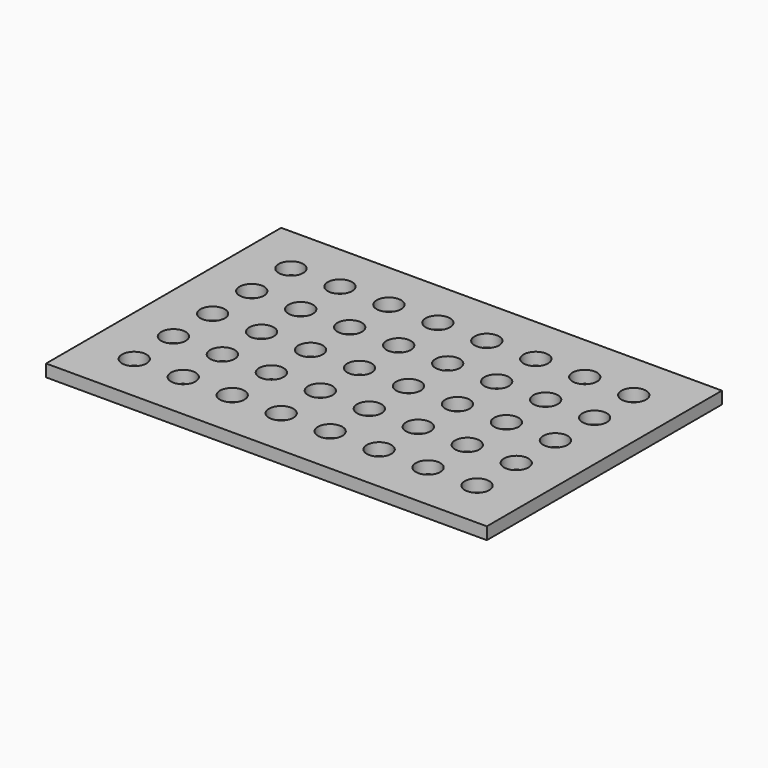
from build123d import *

# Parameters (mm, degrees)
F0_W     = 914.4
F0_H     = 609.6
F1_DEPTH = 25.4
F2_R     = 25.4
F3_DEPTH = 25.4


with BuildPart() as f1:
    # F0 (on Top) → F1 (new body)
    with BuildSketch(Plane.XY):
        Rectangle(F0_W, F0_H)
    extrude(amount=F1_DEPTH)

    # F2 (on face) → F3 (cut, through all)
    with BuildSketch(Plane.XY.offset(25.4)):
        with Locations((-355.6, -203.2)):
            Circle(F2_R)
        with Locations((-254, -203.2)):
            Circle(F2_R)
        with Locations((-152.4, -203.2)):
            Circle(F2_R)
        with Locations((-50.8, -203.2)):
            Circle(F2_R)
        with Locations((50.8, -203.2)):
            Circle(F2_R)
        with Locations((152.4, -203.2)):
            Circle(F2_R)
        with Locations((254, -203.2)):
            Circle(F2_R)
        with Locations((355.6, -203.2)):
            Circle(F2_R)
        with Locations((-355.6, -101.6)):
            Circle(F2_R)
        with Locations((-355.6, 0)):
            Circle(F2_R)
        with Locations((-355.6, 101.6)):
            Circle(F2_R)
        with Locations((-355.6, 203.2)):
            Circle(F2_R)
        with Locations((-254, -101.6)):
            Circle(F2_R)
        with Locations((-254, 0)):
            Circle(F2_R)
        with Locations((-254, 101.6)):
            Circle(F2_R)
        with Locations((-254, 203.2)):
            Circle(F2_R)
        with Locations((-152.4, -101.6)):
            Circle(F2_R)
        with Locations((-152.4, 0)):
            Circle(F2_R)
        with Locations((-152.4, 101.6)):
            Circle(F2_R)
        with Locations((-152.4, 203.2)):
            Circle(F2_R)
        with Locations((-50.8, -101.6)):
            Circle(F2_R)
        with Locations((-50.8, 0)):
            Circle(F2_R)
        with Locations((-50.8, 101.6)):
            Circle(F2_R)
        with Locations((-50.8, 203.2)):
            Circle(F2_R)
        with Locations((50.8, -101.6)):
            Circle(F2_R)
        with Locations((50.8, 0)):
            Circle(F2_R)
        with Locations((50.8, 101.6)):
            Circle(F2_R)
        with Locations((50.8, 203.2)):
            Circle(F2_R)
        with Locations((152.4, -101.6)):
            Circle(F2_R)
        with Locations((152.4, 0)):
            Circle(F2_R)
        with Locations((152.4, 101.6)):
            Circle(F2_R)
        with Locations((152.4, 203.2)):
            Circle(F2_R)
        with Locations((254, -101.6)):
            Circle(F2_R)
        with Locations((254, 0)):
            Circle(F2_R)
        with Locations((254, 101.6)):
            Circle(F2_R)
        with Locations((254, 203.2)):
            Circle(F2_R)
        with Locations((355.6, -101.6)):
            Circle(F2_R)
        with Locations((355.6, 0)):
            Circle(F2_R)
        with Locations((355.6, 101.6)):
            Circle(F2_R)
        with Locations((355.6, 203.2)):
            Circle(F2_R)
    extrude(amount=-F3_DEPTH, mode=Mode.SUBTRACT)


solid = f1.part
